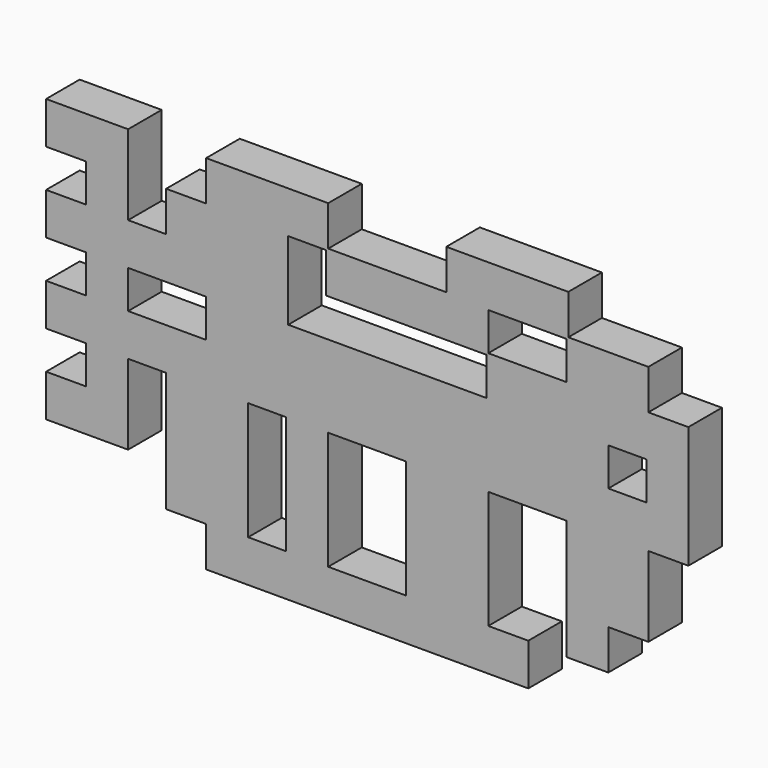
from build123d import *

# Parameters (mm, degrees)
F0_W     = 2.011246
F0_H     = 6.24458
F0_W_2   = 4.128602
F0_W_3   = 4.127913
F0_H_2   = 2.011246
F0_H_3   = 2.011247
F1_DEPTH = 2.22


with BuildPart() as f1:
    # F0 (on Front) → F1 (new body)
    with BuildSketch(Plane.XZ):
        Polygon((16.986388, 5.344377), (14.869721, 5.344377), (14.869721, 7.461044), (10.636388, 7.461044), (10.636388, 9.57771), (4.180968, 9.57771), (4.180968, 7.461044), (-2.064301, 7.461044), (-2.064301, 9.57771), (-8.519721, 9.57771), (-8.519721, 7.461044), (-10.636388, 7.461044), (-10.636388, 5.344377), (-12.647634, 5.344377), (-12.647634, 9.57771), (-16.986388, 9.57771), (-16.986388, 7.355624), (-14.869721, 7.355624), (-14.869721, 5.344377), (-16.986388, 5.344377), (-16.986388, 3.12229), (-14.869721, 3.12229), (-14.869721, 1.111044), (-16.986388, 1.111044), (-16.986388, -1.111043), (-14.869721, -1.111043), (-14.869721, -3.12229), (-16.986388, -3.12229), (-16.986388, -5.344376), (-12.647634, -5.344376), (-12.647634, -1.111043), (-10.636388, -1.111043), (-10.636388, -7.461043), (-8.519721, -7.461043), (-8.519721, -9.57771), (8.519721, -9.57771), (8.519721, -7.355623), (6.403055, -7.355623), (6.403055, -1.111043), (10.530968, -1.111043), (10.530968, -7.461043), (12.753055, -7.461043), (12.753055, -5.344376), (14.869721, -5.344376), (14.869721, -1.111043), (16.986388, -1.111043), align=None)
        with Locations((-5.292011, -4.233333)):
            Rectangle(F0_W, F0_H, mode=Mode.SUBTRACT)
        with Locations((0, -4.233333)):
            Rectangle(F0_W_2, F0_H, mode=Mode.SUBTRACT)
        with Locations((-10.583678, 2.116667)):
            Rectangle(F0_W_3, F0_H_2, mode=Mode.SUBTRACT)
        with Locations((13.758678, 2.116667)):
            Rectangle(F0_W, F0_H_2, mode=Mode.SUBTRACT)
        Polygon((6.297635, 5.238957), (6.297635, 3.22771), (-4.180968, 3.22771), (-4.180968, 7.355624), (-2.169721, 7.355624), (-2.169721, 5.238957), align=None, mode=Mode.SUBTRACT)
        with Locations((8.467011, 6.350001)):
            Rectangle(F0_W_3, F0_H_3, mode=Mode.SUBTRACT)
    extrude(amount=F1_DEPTH)


solid = f1.part
